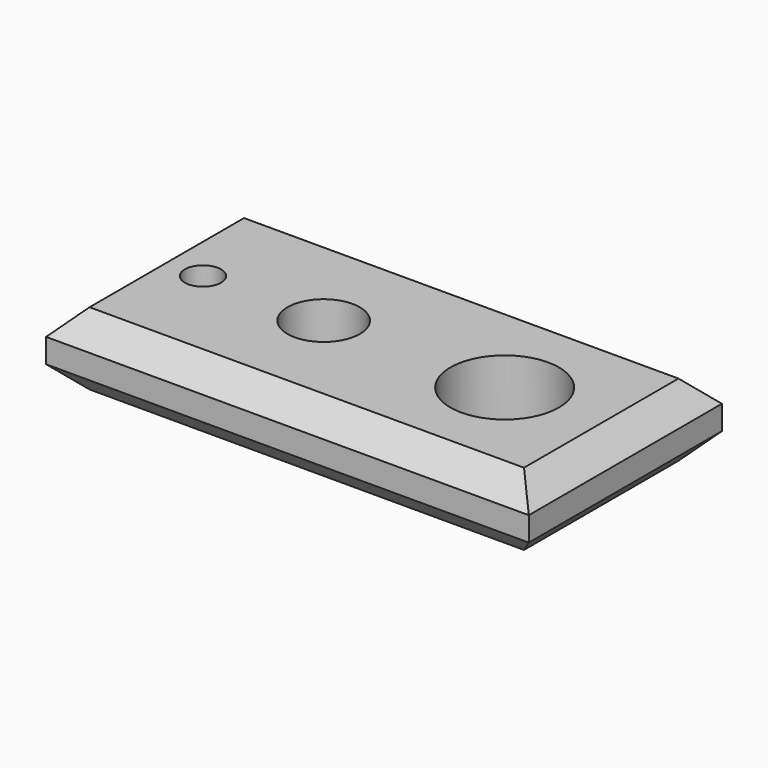
from build123d import *

# Parameters (mm, degrees)
F1_DEPTH = 30
F2_SIZE2 = 10
F2_SIZE  = 10
F3_SIZE  = 5


with BuildPart() as f1:
    # F0 (on Top) → F1 (new body)
    with BuildSketch(Plane.XY):
        with BuildLine():
            Line((100, 50), (-100, 50))
            Line((-100, 50), (-100, 0))
            Line((-100, 0), (-82.5, 0))
            ThreePointArc((-82.5, 0), (-75, 7.5), (-67.5, 0))
            Line((-67.5, 0), (-40, 0))
            ThreePointArc((-40, 0), (-25, 15), (-10, 0))
            Line((-10, 0), (27.5, 0))
            ThreePointArc((27.5, 0), (50, 22.5), (72.5, 0))
            Line((72.5, 0), (100, 0))
            Line((100, 0), (100, 50))
        make_face()
        with BuildLine():
            Line((-82.5, 0), (-100, 0))
            Line((-100, 0), (-100, -50))
            Line((-100, -50), (100, -50))
            Line((100, -50), (100, 0))
            Line((100, 0), (72.5, 0))
            ThreePointArc((72.5, 0), (50, -22.5), (27.5, 0))
            Line((27.5, 0), (-10, 0))
            ThreePointArc((-10, 0), (-25, -15), (-40, 0))
            Line((-40, 0), (-67.5, 0))
            ThreePointArc((-67.5, 0), (-75, -7.5), (-82.5, 0))
        make_face()
    extrude(amount=F1_DEPTH)

    # F2
    f2_edges = [f1.edges().sort_by_distance(p)[0] for p in [
        (-100, 0, 30),
        (-100, 0, 0),
        (100, 0, 30),
        (100, 0, 0),
        (0, -50, 30),
        (0, 50, 30),
        (0, -50, 0),
        (0, 50, 0),
    ]]
    chamfer(f2_edges, length=F2_SIZE, length2=F2_SIZE2)

    # F3
    f3_edges = [f1.edges().sort_by_distance(p)[0] for p in [
        (-67.5, 0, 0),
        (-10, 0, 0),
        (27.5, 0, 0),
    ]]
    chamfer(f3_edges, length=F3_SIZE)


solid = f1.part
